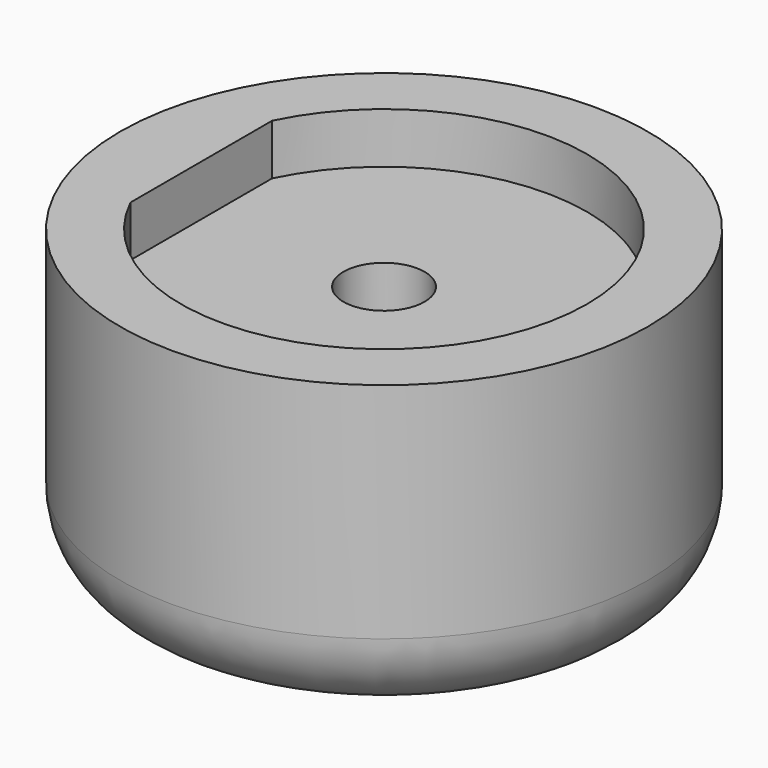
from build123d import *

# Parameters (mm, degrees)
F0_R     = 12.7
F1_DEPTH = 15.875
F0_R_2   = 16.51
F2_DEPTH = 19.05
F4_DEPTH = 3.175
F5_R     = 2.54
F6_DEPTH = 19.051
F7_R     = 5.08


with BuildPart() as f1:
    # F0 (on Top) → F1 (new body)
    with BuildSketch(Plane.XY):
        Circle(F0_R)
    extrude(amount=F1_DEPTH)

    # F0 (on Top) → F2 (join)
    with BuildSketch(Plane.XY):
        Circle(F0_R_2)
        Circle(F0_R, mode=Mode.SUBTRACT)
    extrude(amount=F2_DEPTH)

    # F3 (on face) → F4 (join, through all)
    with BuildSketch(Plane.XY.offset(15.875)):
        with BuildLine():
            Line((-11.43, -5.535802), (-11.43, 5.535802))
            ThreePointArc((-11.43, 5.535802), (-12.7, 0), (-11.43, -5.535802))
        make_face()
    extrude(amount=F4_DEPTH)

    # F5 (on face) → F6 (cut, through all)
    with BuildSketch(Plane(origin=(0, 0, 0), x_dir=(1, 0, 0), z_dir=(0, 0, -1))):
        Circle(F5_R)
    extrude(amount=-F6_DEPTH, mode=Mode.SUBTRACT)

    # F7
    f7_edges = [f1.edges().sort_by_distance(p)[0] for p in [
        (-16.51, 0, 0),
        (-2.54, 0, 0),
    ]]
    fillet(f7_edges, radius=F7_R)


solid = f1.part
